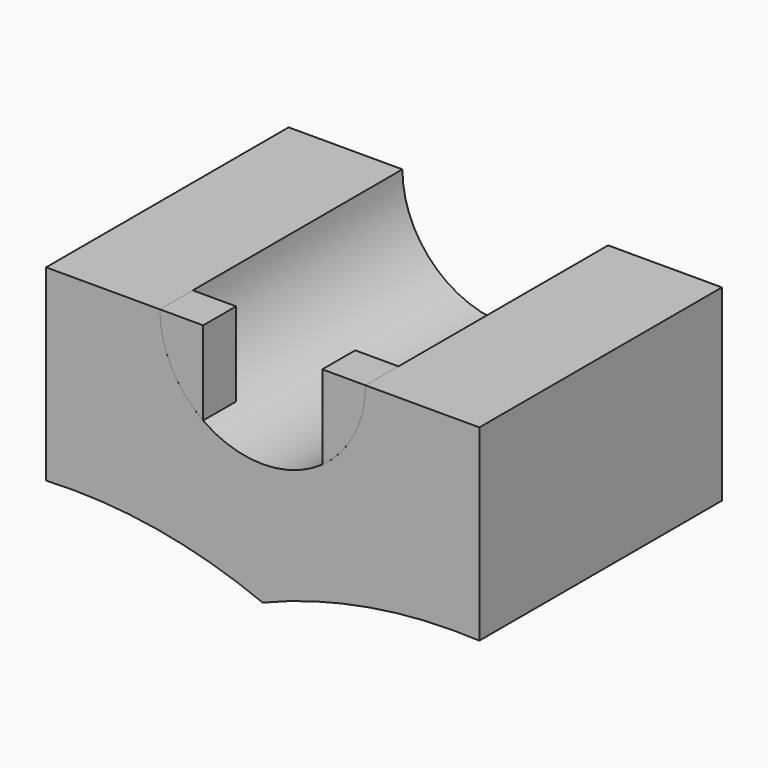
from build123d import *

# Parameters (mm, degrees)
F6_DEPTH = 35.56
F8_DEPTH = 4.826


with BuildPart() as f6:
    # F5 (on offset) → F6 (new body)
    with BuildSketch(Plane.XZ.offset(101.6)):
        with BuildLine():
            ThreePointArc((-25.410008, -46.462934), (-12.466561, -47.234477), (0, -50.8))
            ThreePointArc((0, -50.8), (12.466561, -47.234477), (25.410008, -46.462934))
            Line((25.410008, -46.462934), (25.410008, -24.438573))
            Line((25.410008, -24.438573), (12.065, -24.438573))
            ThreePointArc((12.065, -24.438573), (0, -36.503573), (-12.065, -24.438573))
            Line((-12.065, -24.438573), (-25.410008, -24.438573))
            Line((-25.410008, -24.438573), (-25.410008, -46.462934))
        make_face()
    extrude(amount=F6_DEPTH)


with BuildPart() as f8:
    # F7 (on face) → F8 (new body)
    with BuildSketch(Plane.XZ.offset(137.16)):
        with BuildLine():
            Line((-6.985, -24.438573), (-12.065, -24.438573))
            ThreePointArc((-12.065, -24.438573), (-10.720034, -29.974375), (-6.985, -34.275951))
            Line((-6.985, -34.275951), (-6.985, -24.438573))
        make_face()
        with BuildLine():
            Line((6.985, -24.438573), (6.985, -34.275951))
            ThreePointArc((6.985, -34.275951), (10.720034, -29.974375), (12.065, -24.438573))
            Line((12.065, -24.438573), (6.985, -24.438573))
        make_face()
    extrude(amount=-F8_DEPTH)


solid = Compound([f6.part, f8.part])
